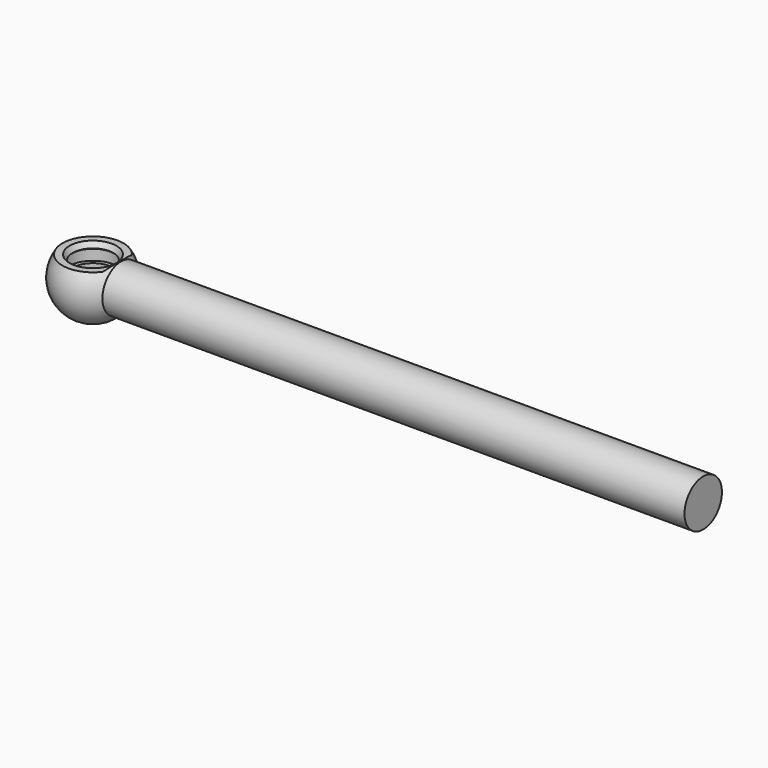
from build123d import *

# Parameters (mm, degrees)
F3_DEPTH      = 25
F3_DEPTH_BACK = 25


with BuildPart() as f1:
    # F0 (on Front) → F1 (revolve)
    with BuildSketch(Plane.XZ):
        with BuildLine():
            Line((150, 5.75), (6.9236912121, 5.75))
            ThreePointArc((6.9236912121, 5.75), (-3.0566958543, 8.4650227675), (-9, 0))
            Line((-9, 0), (150, 0))
            Line((150, 0), (150, 5.75))
        make_face()
    revolve(axis=Axis((120.5487623811, 0, 0), (1, 0, 0)))

    # F2 (on Front) → F3 (cut, two sides)
    with BuildSketch(Plane.XZ) as f3_sk:
        Polygon((10, 9), (10, 10), (-10, 10), (-10, 5), (6, 5), align=None)
    extrude(amount=-F3_DEPTH, mode=Mode.SUBTRACT)
    extrude(f3_sk.sketch, amount=F3_DEPTH_BACK, mode=Mode.SUBTRACT)

    # F4 (on Front) → F5 (revolve, cut)
    with BuildSketch(Plane.XZ):
        Polygon((-5, -3.5), (0, -6.3867513459), (0, 5), (-5.7505553499, 5), (-5, 3.7), (-5.2, 3.5), (-6, 3.5), (-6, 0.5), (-5, 0.5), align=None)
    revolve(axis=Axis((0, 0, 6.4185173251), (0, 0, 1)), mode=Mode.SUBTRACT)


solid = f1.part
